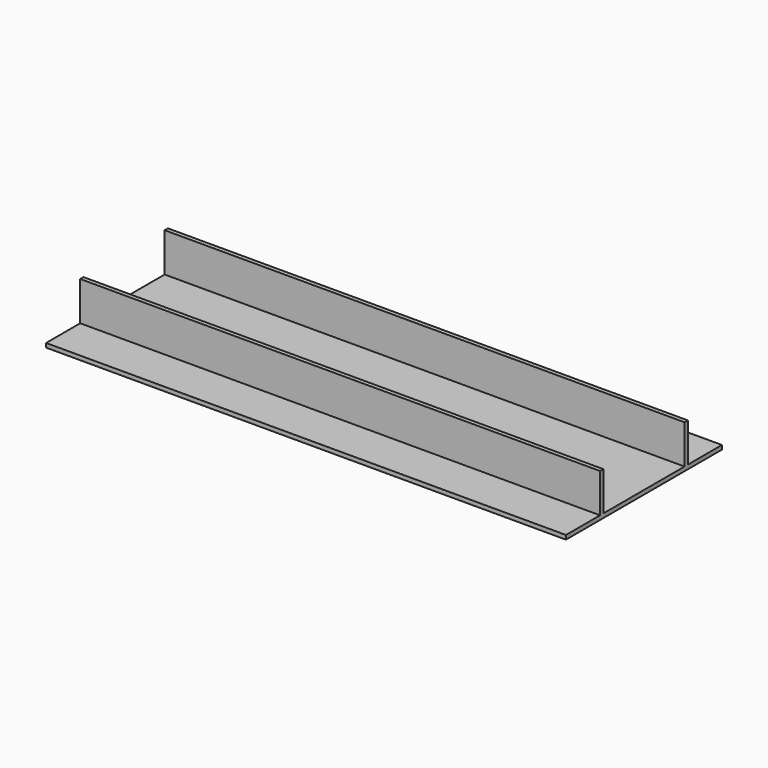
from build123d import *

# Parameters (mm, degrees)
F0_W     = 400
F0_H     = 150
F1_DEPTH = 1.5875
F2_W     = 400
F2_H     = 3.175
F3_DEPTH = 30


with BuildPart() as f1:
    # F0 (on Top) → F1 (new body, symmetric)
    with BuildSketch(Plane.XY):
        Rectangle(F0_W, F0_H)
    extrude(amount=F1_DEPTH, both=True)

    # F2 (on face) → F3 (join)
    with BuildSketch(Plane.XY.offset(1.5875)):
        with Locations((0, 40.618111515)):
            Rectangle(F2_W, F2_H)
    extrude(amount=F3_DEPTH)

    # F4: F1 across plane


with BuildPart() as f1_1:
    add(f1.part)
    add(f1.part.mirror(Plane.XZ))


solid = f1_1.part
